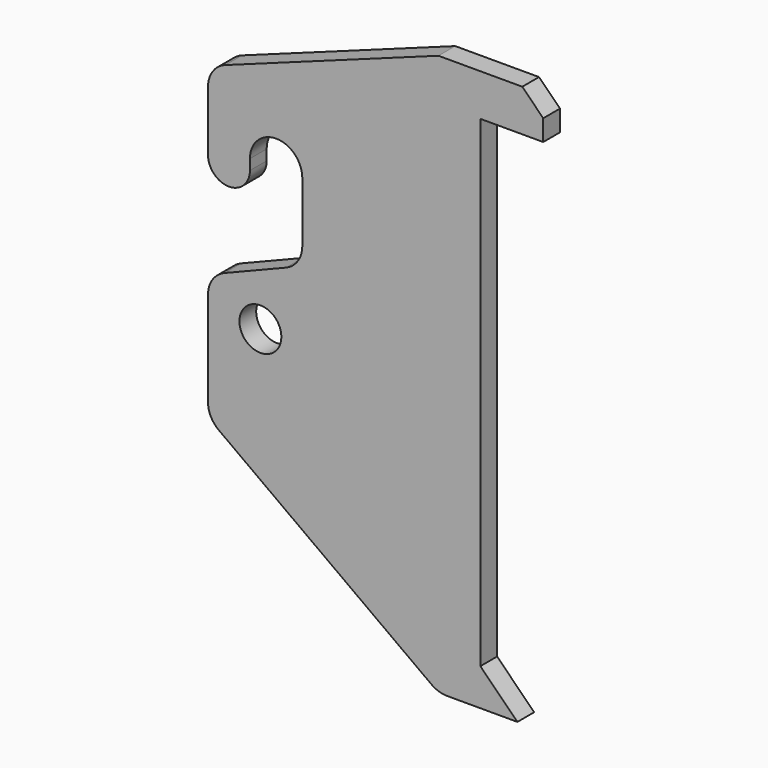
from build123d import *

# Parameters (mm, degrees)
F0_R     = 25.4
F1_DEPTH = 25.4


with BuildPart() as f1:
    # F0 (on Front) → F1 (new body)
    with BuildSketch(Plane.XZ):
        with BuildLine():
            ThreePointArc((-279.4, -184.15), (-247.65, -152.4), (-215.9, -184.15))
            Line((-215.9, -184.15), (-215.9, -256.861371))
            ThreePointArc((-215.9, -256.861371), (-221.340674, -274.634437), (-235.79807, -286.316324))
            Line((-235.79807, -286.316324), (-310.30193, -316.294799))
            ThreePointArc((-310.30193, -316.294799), (-324.759326, -327.976686), (-330.2, -345.749752))
            Line((-330.2, -345.749752), (-330.2, -460.5334))
            ThreePointArc((-330.2, -460.5334), (-326.7429, -474.94084), (-317.124451, -486.21077))
            Line((-317.124451, -486.21077), (-59.149865, -673.828651))
            ThreePointArc((-59.149865, -673.828651), (-50.293916, -678.34498), (-40.475414, -679.901281))
            Line((-40.475414, -679.901281), (44.901281, -679.901281))
            Line((44.901281, -679.901281), (0, -635))
            Line((0, -635), (0, -50.8))
            Line((0, -50.8), (76.2, -50.8))
            Line((76.2, -50.8), (76.2, -25.4))
            Line((76.2, -25.4), (50.8, 0))
            Line((50.8, 0), (0, 0))
            Line((0, 0), (-50.8, 0))
            Line((-50.8, 0), (-309.300342, -94.000124))
            ThreePointArc((-309.300342, -94.000124), (-324.455392, -105.62368), (-330.2, -123.838566))
            Line((-330.2, -123.838566), (-330.2, -196.85))
            ThreePointArc((-330.2, -196.85), (-304.8, -222.25), (-279.4, -196.85))
            Line((-279.4, -196.85), (-279.4, -184.15))
        make_face()
        with Locations((-266.7, -361.95)):
            Circle(F0_R, mode=Mode.SUBTRACT)
    extrude(amount=F1_DEPTH)


solid = f1.part
